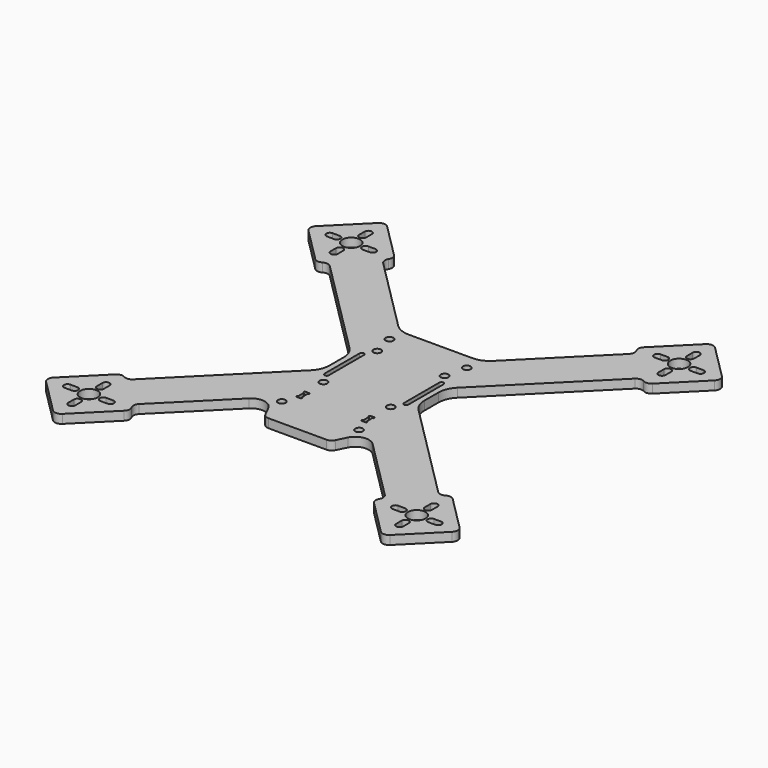
from build123d import *

# Parameters (mm, degrees)
F0_R     = 4
F0_R_2   = 1.75
F1_DEPTH = 4
F2_R     = 3


with BuildPart() as f1:
    # F0 (on Top) → F1 (new body)
    with BuildSketch(Plane.XY):
        with BuildLine():
            ThreePointArc((-24.428932, 10.993903), (-22.261205, 7.74967), (-21.5, 3.922836))
            Line((-21.5, 3.922836), (-21.5, -3.922836))
            ThreePointArc((-21.5, -3.922836), (-22.261205, -7.74967), (-24.428932, -10.993903))
            Line((-24.428932, -10.993903), (-71.064232, -57.629203))
            Line((-71.064232, -57.629203), (-72.124892, -56.568542))
            ThreePointArc((-72.124892, -56.568542), (-74.246212, -55.689863), (-76.367532, -56.568542))
            Line((-76.367532, -56.568542), (-91.923882, -72.124892))
            ThreePointArc((-91.923882, -72.124892), (-92.802561, -74.246212), (-91.923882, -76.367532))
            Line((-91.923882, -76.367532), (-76.367532, -91.923882))
            ThreePointArc((-76.367532, -91.923882), (-74.246212, -92.802561), (-72.124892, -91.923882))
            Line((-72.124892, -91.923882), (-56.568542, -76.367532))
            ThreePointArc((-56.568542, -76.367532), (-55.689863, -74.246212), (-56.568542, -72.124892))
            Line((-56.568542, -72.124892), (-57.629203, -71.064232))
            Line((-57.629203, -71.064232), (-27.950265, -41.385294))
            ThreePointArc((-27.950265, -41.385294), (-22.561834, -39.645786), (-18, -43))
            Line((-18, -43), (-15.82918, -47.341641))
            ThreePointArc((-15.82918, -47.341641), (-14.723091, -48.551952), (-13.145898, -49))
            Line((-13.145898, -49), (13.145898, -49))
            ThreePointArc((13.145898, -49), (14.723091, -48.551952), (15.82918, -47.341641))
            Line((15.82918, -47.341641), (18, -43))
            ThreePointArc((18, -43), (22.561834, -39.645786), (27.950265, -41.385294))
            Line((27.950265, -41.385294), (57.629203, -71.064232))
            Line((57.629203, -71.064232), (56.568542, -72.124892))
            ThreePointArc((56.568542, -72.124892), (55.689863, -74.246212), (56.568542, -76.367532))
            Line((56.568542, -76.367532), (72.124892, -91.923882))
            ThreePointArc((72.124892, -91.923882), (74.246212, -92.802561), (76.367532, -91.923882))
            Line((76.367532, -91.923882), (91.923882, -76.367532))
            ThreePointArc((91.923882, -76.367532), (92.802561, -74.246212), (91.923882, -72.124892))
            Line((91.923882, -72.124892), (76.367532, -56.568542))
            ThreePointArc((76.367532, -56.568542), (74.246212, -55.689863), (72.124892, -56.568542))
            Line((72.124892, -56.568542), (71.064232, -57.629203))
            Line((71.064232, -57.629203), (24.428932, -10.993903))
            ThreePointArc((24.428932, -10.993903), (22.261205, -7.74967), (21.5, -3.922836))
            Line((21.5, -3.922836), (21.5, 3.922836))
            ThreePointArc((21.5, 3.922836), (22.261205, 7.74967), (24.428932, 10.993903))
            Line((24.428932, 10.993903), (71.064232, 57.629203))
            Line((71.064232, 57.629203), (72.124892, 56.568542))
            ThreePointArc((72.124892, 56.568542), (74.246212, 55.689863), (76.367532, 56.568542))
            Line((76.367532, 56.568542), (91.923882, 72.124892))
            ThreePointArc((91.923882, 72.124892), (92.802561, 74.246212), (91.923882, 76.367532))
            Line((91.923882, 76.367532), (76.367532, 91.923882))
            ThreePointArc((76.367532, 91.923882), (74.246212, 92.802561), (72.124892, 91.923882))
            Line((72.124892, 91.923882), (56.568542, 76.367532))
            ThreePointArc((56.568542, 76.367532), (55.689863, 74.246212), (56.568542, 72.124892))
            Line((56.568542, 72.124892), (57.629203, 71.064232))
            Line((57.629203, 71.064232), (21.493903, 34.928932))
            ThreePointArc((21.493903, 34.928932), (18.24967, 32.761205), (14.422836, 32))
            Line((14.422836, 32), (-14.422836, 32))
            ThreePointArc((-14.422836, 32), (-18.24967, 32.761205), (-21.493903, 34.928932))
            Line((-21.493903, 34.928932), (-57.629203, 71.064232))
            Line((-57.629203, 71.064232), (-56.568542, 72.124892))
            ThreePointArc((-56.568542, 72.124892), (-55.689863, 74.246212), (-56.568542, 76.367532))
            Line((-56.568542, 76.367532), (-72.124892, 91.923882))
            ThreePointArc((-72.124892, 91.923882), (-74.246212, 92.802561), (-76.367532, 91.923882))
            Line((-76.367532, 91.923882), (-91.923882, 76.367532))
            ThreePointArc((-91.923882, 76.367532), (-92.802561, 74.246212), (-91.923882, 72.124892))
            Line((-91.923882, 72.124892), (-76.367532, 56.568542))
            ThreePointArc((-76.367532, 56.568542), (-74.246212, 55.689863), (-72.124892, 56.568542))
            Line((-72.124892, 56.568542), (-71.064232, 57.629203))
            Line((-71.064232, 57.629203), (-24.428932, 10.993903))
        make_face()
        with BuildLine():
            ThreePointArc((-75.846212, -80.746212), (-74.246212, -79.146212), (-72.646212, -80.746212))
            Line((-72.646212, -80.746212), (-72.646212, -83.946212))
            ThreePointArc((-72.646212, -83.946212), (-74.246212, -85.546212), (-75.846212, -83.946212))
            Line((-75.846212, -83.946212), (-75.846212, -80.746212))
        make_face(mode=Mode.SUBTRACT)
        with BuildLine():
            ThreePointArc((-80.746212, -72.646212), (-79.146212, -74.246212), (-80.746212, -75.846212))
            Line((-80.746212, -75.846212), (-83.946212, -75.846212))
            ThreePointArc((-83.946212, -75.846212), (-85.546212, -74.246212), (-83.946212, -72.646212))
            Line((-83.946212, -72.646212), (-80.746212, -72.646212))
        make_face(mode=Mode.SUBTRACT)
        with Locations((-74.246212, -74.246212)):
            Circle(F0_R, mode=Mode.SUBTRACT)
        with BuildLine():
            ThreePointArc((-67.746212, -75.846212), (-69.346212, -74.246212), (-67.746212, -72.646212))
            Line((-67.746212, -72.646212), (-64.546212, -72.646212))
            ThreePointArc((-64.546212, -72.646212), (-62.946212, -74.246212), (-64.546212, -75.846212))
            Line((-64.546212, -75.846212), (-67.746212, -75.846212))
        make_face(mode=Mode.SUBTRACT)
        with BuildLine():
            ThreePointArc((-72.646212, -67.746212), (-74.246212, -69.346212), (-75.846212, -67.746212))
            Line((-75.846212, -67.746212), (-75.846212, -64.546212))
            ThreePointArc((-75.846212, -64.546212), (-74.246212, -62.946212), (-72.646212, -64.546212))
            Line((-72.646212, -64.546212), (-72.646212, -67.746212))
        make_face(mode=Mode.SUBTRACT)
        with Locations((-17.5, -36)):
            Circle(F0_R_2, mode=Mode.SUBTRACT)
        with BuildLine():
            ThreePointArc((-15.5, -26), (-16, -25.5), (-15.5, -25))
            Line((-15.5, -25), (-14, -25))
            ThreePointArc((-14, -25), (-13.5, -25.5), (-14, -26))
            Line((-14, -26), (-14, -29))
            ThreePointArc((-14, -29), (-13.5, -29.5), (-14, -30))
            Line((-14, -30), (-15.5, -30))
            ThreePointArc((-15.5, -30), (-16, -29.5), (-15.5, -29))
            Line((-15.5, -29), (-15.5, -26))
        make_face(mode=Mode.SUBTRACT)
        with Locations((-15.25, -15.25)):
            Circle(F0_R_2, mode=Mode.SUBTRACT)
        with BuildLine():
            Line((64.546212, -72.646212), (67.746212, -72.646212))
            ThreePointArc((67.746212, -72.646212), (69.346212, -74.246212), (67.746212, -75.846212))
            Line((67.746212, -75.846212), (64.546212, -75.846212))
            ThreePointArc((64.546212, -75.846212), (62.946212, -74.246212), (64.546212, -72.646212))
        make_face(mode=Mode.SUBTRACT)
        with BuildLine():
            Line((72.646212, -83.946212), (72.646212, -80.746212))
            ThreePointArc((72.646212, -80.746212), (74.246212, -79.146212), (75.846212, -80.746212))
            Line((75.846212, -80.746212), (75.846212, -83.946212))
            ThreePointArc((75.846212, -83.946212), (74.246212, -85.546212), (72.646212, -83.946212))
        make_face(mode=Mode.SUBTRACT)
        with Locations((74.246212, -74.246212)):
            Circle(F0_R, mode=Mode.SUBTRACT)
        with BuildLine():
            Line((83.946212, -75.846212), (80.746212, -75.846212))
            ThreePointArc((80.746212, -75.846212), (79.146212, -74.246212), (80.746212, -72.646212))
            Line((80.746212, -72.646212), (83.946212, -72.646212))
            ThreePointArc((83.946212, -72.646212), (85.546212, -74.246212), (83.946212, -75.846212))
        make_face(mode=Mode.SUBTRACT)
        with BuildLine():
            Line((75.846212, -64.546212), (75.846212, -67.746212))
            ThreePointArc((75.846212, -67.746212), (74.246212, -69.346212), (72.646212, -67.746212))
            Line((72.646212, -67.746212), (72.646212, -64.546212))
            ThreePointArc((72.646212, -64.546212), (74.246212, -62.946212), (75.846212, -64.546212))
        make_face(mode=Mode.SUBTRACT)
        with Locations((17.5, -36)):
            Circle(F0_R_2, mode=Mode.SUBTRACT)
        with BuildLine():
            Line((14, -25), (15.5, -25))
            ThreePointArc((15.5, -25), (16, -25.5), (15.5, -26))
            Line((15.5, -26), (15.5, -29))
            ThreePointArc((15.5, -29), (16, -29.5), (15.5, -30))
            Line((15.5, -30), (14, -30))
            ThreePointArc((14, -30), (13.5, -29.5), (14, -29))
            Line((14, -29), (14, -26))
            ThreePointArc((14, -26), (13.5, -25.5), (14, -25))
        make_face(mode=Mode.SUBTRACT)
        with Locations((15.25, -15.25)):
            Circle(F0_R_2, mode=Mode.SUBTRACT)
        with BuildLine():
            Line((-19, -10), (-19, 10))
            ThreePointArc((-19, 10), (-18, 11), (-17, 10))
            Line((-17, 10), (-17, -10))
            ThreePointArc((-17, -10), (-18, -11), (-19, -10))
        make_face(mode=Mode.SUBTRACT)
        with Locations((-15.25, 15.25)):
            Circle(F0_R_2, mode=Mode.SUBTRACT)
        with Locations((-17.5, 25)):
            Circle(F0_R_2, mode=Mode.SUBTRACT)
        with BuildLine():
            Line((-75.846212, 64.546212), (-75.846212, 67.746212))
            ThreePointArc((-75.846212, 67.746212), (-74.246212, 69.346212), (-72.646212, 67.746212))
            Line((-72.646212, 67.746212), (-72.646212, 64.546212))
            ThreePointArc((-72.646212, 64.546212), (-74.246212, 62.946212), (-75.846212, 64.546212))
        make_face(mode=Mode.SUBTRACT)
        with BuildLine():
            Line((-83.946212, 75.846212), (-80.746212, 75.846212))
            ThreePointArc((-80.746212, 75.846212), (-79.146212, 74.246212), (-80.746212, 72.646212))
            Line((-80.746212, 72.646212), (-83.946212, 72.646212))
            ThreePointArc((-83.946212, 72.646212), (-85.546212, 74.246212), (-83.946212, 75.846212))
        make_face(mode=Mode.SUBTRACT)
        with Locations((-74.246212, 74.246212)):
            Circle(F0_R, mode=Mode.SUBTRACT)
        with BuildLine():
            Line((-72.646212, 83.946212), (-72.646212, 80.746212))
            ThreePointArc((-72.646212, 80.746212), (-74.246212, 79.146212), (-75.846212, 80.746212))
            Line((-75.846212, 80.746212), (-75.846212, 83.946212))
            ThreePointArc((-75.846212, 83.946212), (-74.246212, 85.546212), (-72.646212, 83.946212))
        make_face(mode=Mode.SUBTRACT)
        with BuildLine():
            Line((-64.546212, 72.646212), (-67.746212, 72.646212))
            ThreePointArc((-67.746212, 72.646212), (-69.346212, 74.246212), (-67.746212, 75.846212))
            Line((-67.746212, 75.846212), (-64.546212, 75.846212))
            ThreePointArc((-64.546212, 75.846212), (-62.946212, 74.246212), (-64.546212, 72.646212))
        make_face(mode=Mode.SUBTRACT)
        with BuildLine():
            ThreePointArc((17, 10), (18, 11), (19, 10))
            Line((19, 10), (19, -10))
            ThreePointArc((19, -10), (18, -11), (17, -10))
            Line((17, -10), (17, 10))
        make_face(mode=Mode.SUBTRACT)
        with Locations((15.25, 15.25)):
            Circle(F0_R_2, mode=Mode.SUBTRACT)
        with Locations((17.5, 25)):
            Circle(F0_R_2, mode=Mode.SUBTRACT)
        with BuildLine():
            Line((72.646212, 64.546212), (72.646212, 67.746212))
            ThreePointArc((72.646212, 67.746212), (74.246212, 69.346212), (75.846212, 67.746212))
            Line((75.846212, 67.746212), (75.846212, 64.546212))
            ThreePointArc((75.846212, 64.546212), (74.246212, 62.946212), (72.646212, 64.546212))
        make_face(mode=Mode.SUBTRACT)
        with BuildLine():
            ThreePointArc((67.746212, 75.846212), (69.346212, 74.246212), (67.746212, 72.646212))
            Line((67.746212, 72.646212), (64.546212, 72.646212))
            ThreePointArc((64.546212, 72.646212), (62.946212, 74.246212), (64.546212, 75.846212))
            Line((64.546212, 75.846212), (67.746212, 75.846212))
        make_face(mode=Mode.SUBTRACT)
        with Locations((74.246212, 74.246212)):
            Circle(F0_R, mode=Mode.SUBTRACT)
        with BuildLine():
            ThreePointArc((80.746212, 72.646212), (79.146212, 74.246212), (80.746212, 75.846212))
            Line((80.746212, 75.846212), (83.946212, 75.846212))
            ThreePointArc((83.946212, 75.846212), (85.546212, 74.246212), (83.946212, 72.646212))
            Line((83.946212, 72.646212), (80.746212, 72.646212))
        make_face(mode=Mode.SUBTRACT)
        with BuildLine():
            ThreePointArc((75.846212, 80.746212), (74.246212, 79.146212), (72.646212, 80.746212))
            Line((72.646212, 80.746212), (72.646212, 83.946212))
            ThreePointArc((72.646212, 83.946212), (74.246212, 85.546212), (75.846212, 83.946212))
            Line((75.846212, 83.946212), (75.846212, 80.746212))
        make_face(mode=Mode.SUBTRACT)
    extrude(amount=F1_DEPTH)

    # F2
    f2_edges = [f1.edges().sort_by_distance(p)[0] for p in [
        (-71.064232, 57.629203, 2),
        (-57.629203, 71.064232, 2),
        (-57.629203, -71.064232, 2),
        (-71.064232, -57.629203, 2),
        (71.064232, 57.629203, 2),
        (57.629203, 71.064232, 2),
        (57.629203, -71.064232, 2),
        (71.064232, -57.629203, 2),
    ]]
    fillet(f2_edges, radius=F2_R)


solid = f1.part
